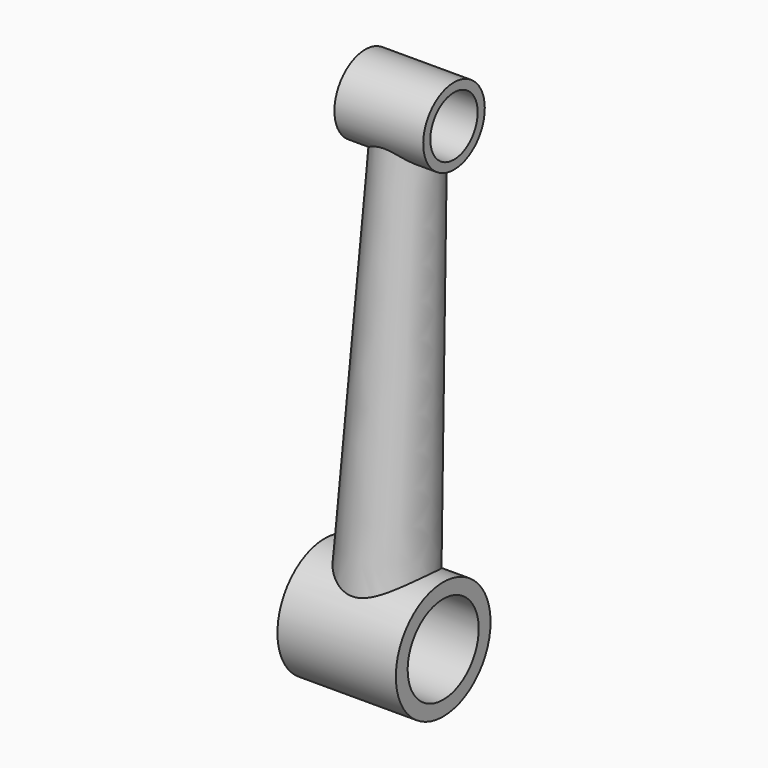
from build123d import *

# Parameters (mm, degrees)
CYLINDER006_R          = 10
CYLINDER006_DEPTH      = 100
CYLINDER007_R          = 15
CYLINDER007_DEPTH      = 100
CYLINDER004_R          = 13
CYLINDER004_DEPTH      = 30
CYLINDER005_R          = 20
CYLINDER005_DEPTH      = 40
CUT004_PLACEMENT_ANGLE = 355.865159


with BuildPart() as cylinder006:
    # Cylinder006 → Cylinder006 (new body)
    with BuildSketch(Plane(origin=(50, 0, 150), x_dir=(0, 0, 1), z_dir=(-1, 0, 0))):
        Circle(CYLINDER006_R)
    extrude(amount=CYLINDER006_DEPTH)


with BuildPart() as compound002:
    # Cylinder007 → Cylinder007 (new body)
    with BuildSketch(Plane.ZY.offset(-50)):
        Circle(CYLINDER007_R)
    extrude(amount=CYLINDER007_DEPTH)

    # Compound002: union Cylinder006
    add(cylinder006.part)


with BuildPart() as cone003:
    # Cone001002 → Cone001002 (revolve)
    with BuildSketch(Plane.XZ):
        Polygon((0, 0), (15, 0), (10, 150), (0, 150), align=None)
    revolve(axis=Axis((0, 0, 0), (0, 0, 1)))


with BuildPart() as cylinder004:
    # Cylinder004 → Cylinder004 (new body)
    with BuildSketch(Plane(origin=(15, 0, 150), x_dir=(0, 0, 1), z_dir=(-1, 0, 0))):
        Circle(CYLINDER004_R)
    extrude(amount=CYLINDER004_DEPTH)


with BuildPart() as crank:
    # Cylinder005 → Cylinder005 (new body)
    with BuildSketch(Plane.ZY.offset(-20)):
        Circle(CYLINDER005_R)
    extrude(amount=CYLINDER005_DEPTH)

    # Fusion002: union Cone003, Cylinder004
    add(cone003.part)
    add(cylinder004.part)

    # Cut004: cut Compound002
    add(compound002.part, mode=Mode.SUBTRACT)


with BuildPart() as crank_1:
    # Cut004 placement: moved
    add(crank.part.moved(Location((0, -10.815595, -33.286978))).rotate(Axis((0, -10.815595, -33.286978), (1, 0, 0)), CUT004_PLACEMENT_ANGLE))


solid = crank_1.part
